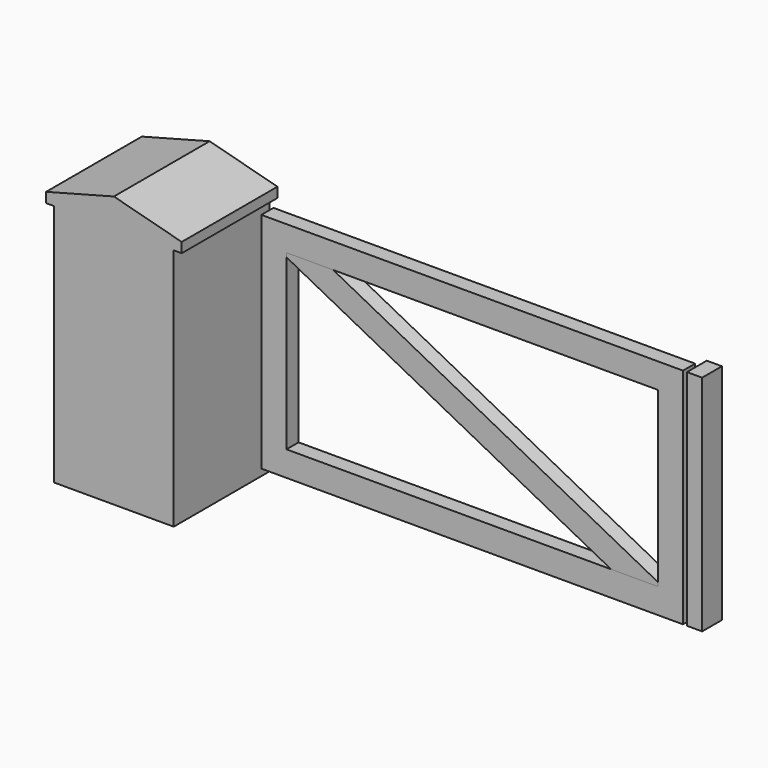
from build123d import *

# Parameters (mm, degrees)
F0_W      = 931
F0_H      = 63
F0_W_2    = 38
F0_H_2    = 560
F1_DEPTH  = 38
F1_FACE_W = 38
F1_FACE_H = 560
F2_DEPTH  = 24
F4_DEPTH  = 38
F5_W      = 300
F5_H      = 610
F6_DEPTH  = 300


with BuildPart() as f1:
    # F0 (on Front) → F1 (new body)
    with BuildSketch(Plane.XZ):
        with Locations((465.5, 31.5)):
            Rectangle(F0_W, F0_H)
        Polygon((-63, 0), (0, 0), (0, 63), (0, 497), (0, 560), (-63, 560), align=None)
        Polygon((931, 63), (931, 0), (994, 0), (994, 560), (931, 560), (931, 497), align=None)
        with Locations((465.5, 528.5)):
            Rectangle(F0_W, F0_H)
        with Locations((1023, 280)):
            Rectangle(F0_W_2, F0_H_2)
    extrude(amount=F1_DEPTH)

    # F1_face (on face) → F2 (join)
    with BuildSketch(Plane(origin=(1023, 0, 280), x_dir=(1, 0, 0), z_dir=(0, 1, 0))):
        Rectangle(F1_FACE_W, F1_FACE_H)
    extrude(amount=F2_DEPTH)


with BuildPart() as f4:
    # F3 (on Front) → F4 (new body)
    with BuildSketch(Plane.XZ):
        Polygon((931, 73), (117.15732, 497), (0, 497), (0, 487), (813.84268, 63), (931, 63), align=None)
    extrude(amount=F4_DEPTH)


with BuildPart() as f6:
    # F5 (on Front) → F6 (new body)
    with BuildSketch(Plane.XZ):
        with Locations((-223, 280)):
            Rectangle(F5_W, F5_H)
        Polygon((-373, 585), (-73, 585), (-53, 585), (-53, 610), (-223, 655), (-393, 610), (-393, 585), align=None)
    extrude(amount=F6_DEPTH)


solid = Compound([f1.part, f4.part, f6.part])
